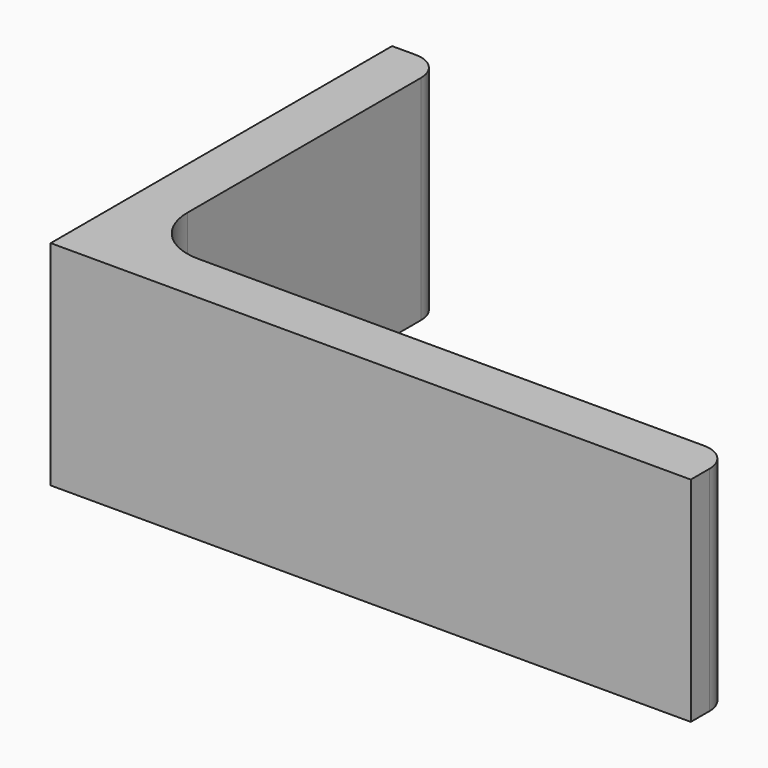
from build123d import *

# Parameters (mm, degrees)
EXTRUDE_DEPTH = 50


with BuildPart() as part:
    # Sketch → Extrude (new body)
    with BuildSketch(Plane.XY):
        with BuildLine():
            Line((0, 0), (150, 0))
            Line((150, 0), (150, 5.5))
            ThreePointArc((150, 5.5), (148.096194, 10.096194), (143.5, 12))
            Line((143.5, 12), (25, 12))
            ThreePointArc((12, 25), (15.807612, 15.807612), (25, 12))
            Line((12, 93.5), (12, 25))
            ThreePointArc((12, 93.5), (10.096194, 98.096194), (5.5, 100))
            Line((0, 100), (5.5, 100))
            Line((0, 0), (0, 100))
        make_face()
    extrude(amount=EXTRUDE_DEPTH)


solid = part.part
